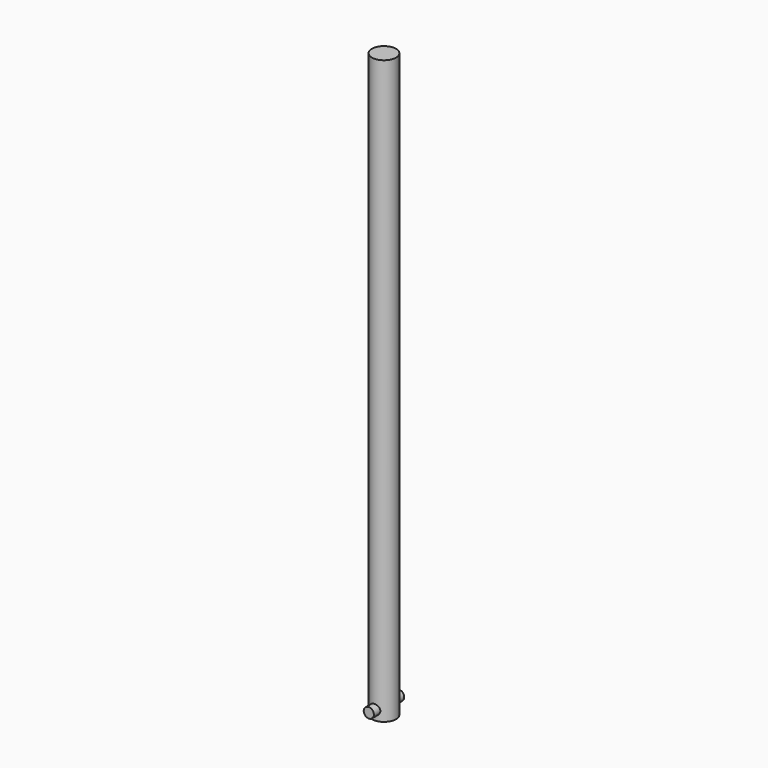
from build123d import *

# Parameters (mm, degrees)
F0_R     = 19
F1_DEPTH = 920
F2_R     = 8
F3_DEPTH = 30


with BuildPart() as f1:
    # F0 (on Top) → F1 (new body)
    with BuildSketch(Plane.XY):
        Circle(F0_R)
    extrude(amount=F1_DEPTH)

    # F2 (on Front) → F3 (join, symmetric)
    with BuildSketch(Plane.XZ):
        with Locations((0, 15)):
            Circle(F2_R)
    extrude(amount=F3_DEPTH, both=True)


solid = f1.part
